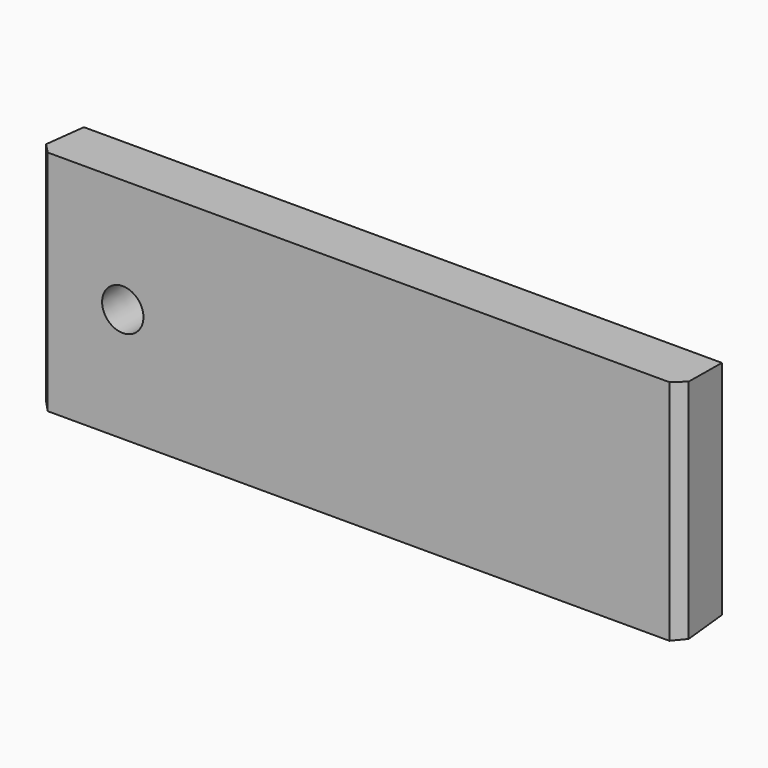
from build123d import *

# Parameters (mm, degrees)
F0_R     = 4.25
F1_DEPTH = 10
F1_TAPER = -3
F2_SIZE  = 2


with BuildPart() as f1:
    # F0 (on Front) → F1 (new body)
    with BuildSketch(Plane.XZ):
        Polygon((-71.1462228677, 37.7487605251), (-186.1462228677, 37.7487605251), (-186.1462228677, 17.7487605251), (-186.1462228677, -2.2512394749), (-71.1462228677, -2.2512394749), align=None)
        with Locations((-171.1462228677, 17.7487605251)):
            Circle(F0_R, mode=Mode.SUBTRACT)
    extrude(amount=F1_DEPTH, taper=F1_TAPER)

    # F2
    f2_edges = [f1.edges().sort_by_distance(p)[0] for p in [
        (-186.670301, -10, 17.748761),
        (-70.622145, -10, 17.748761),
    ]]
    chamfer(f2_edges, length=F2_SIZE)


solid = f1.part
